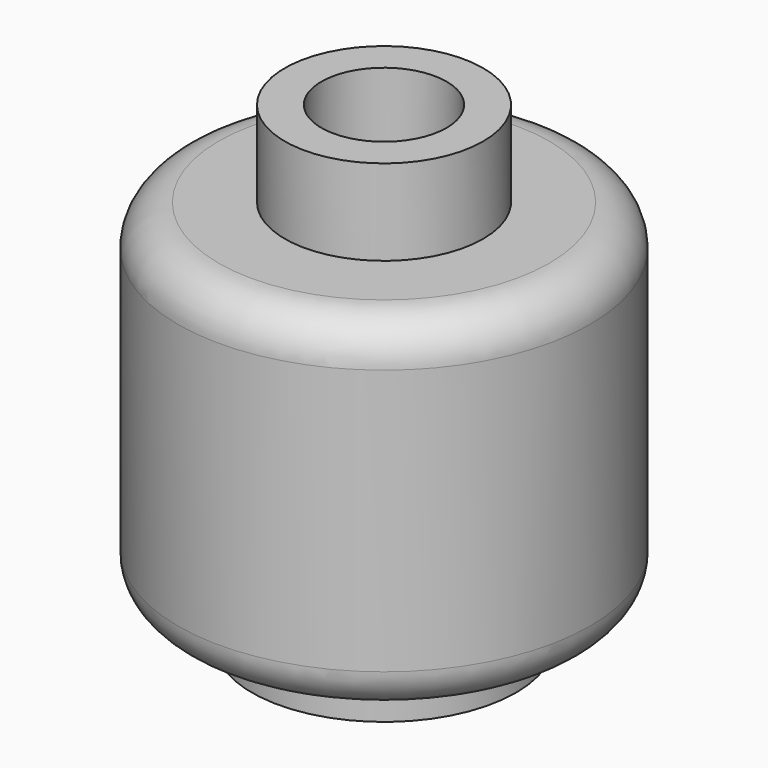
from build123d import *

# Parameters (mm, degrees)
F0_R     = 5.065
F1_DEPTH = 8.53
F2_R     = 1
F3_R     = 1
F4_R     = 2.44
F4_R_2   = 1.54
F5_DEPTH = 2.11
F6_R     = 3.25
F6_R_2   = 2.41
F7_DEPTH = 1.03
F8_DEPTH = 4.4


with BuildPart() as f1:
    # F0 (on Top) → F1 (new body)
    with BuildSketch(Plane.XY):
        Circle(F0_R)
    extrude(amount=F1_DEPTH)

    # F2
    f2_edges = [f1.edges().sort_by_distance(p)[0] for p in [
        (-5.065, 0, 8.53),
    ]]
    fillet(f2_edges, radius=F2_R)

    # F3
    f3_edges = [f1.edges().sort_by_distance(p)[0] for p in [
        (-5.065, 0, 0),
    ]]
    fillet(f3_edges, radius=F3_R)

    # F4 (on face) → F5 (join)
    with BuildSketch(Plane.XY.offset(8.53)):
        Circle(F4_R)
        Circle(F4_R_2, mode=Mode.SUBTRACT)
    extrude(amount=F5_DEPTH)

    # F6 (on face) → F7 (join)
    with BuildSketch(Plane(origin=(0, 0, 0), x_dir=(1, 0, 0), z_dir=(0, 0, -1))):
        Circle(F6_R)
        Circle(F6_R_2, mode=Mode.SUBTRACT)
    extrude(amount=F7_DEPTH)

    # F8 (cut): a face of the model
    f8_faces = [f1.faces().sort_by_distance(p)[0] for p in [
        (0, 0, 0),
    ]]
    extrude(f8_faces, amount=-F8_DEPTH, mode=Mode.SUBTRACT)


solid = f1.part
